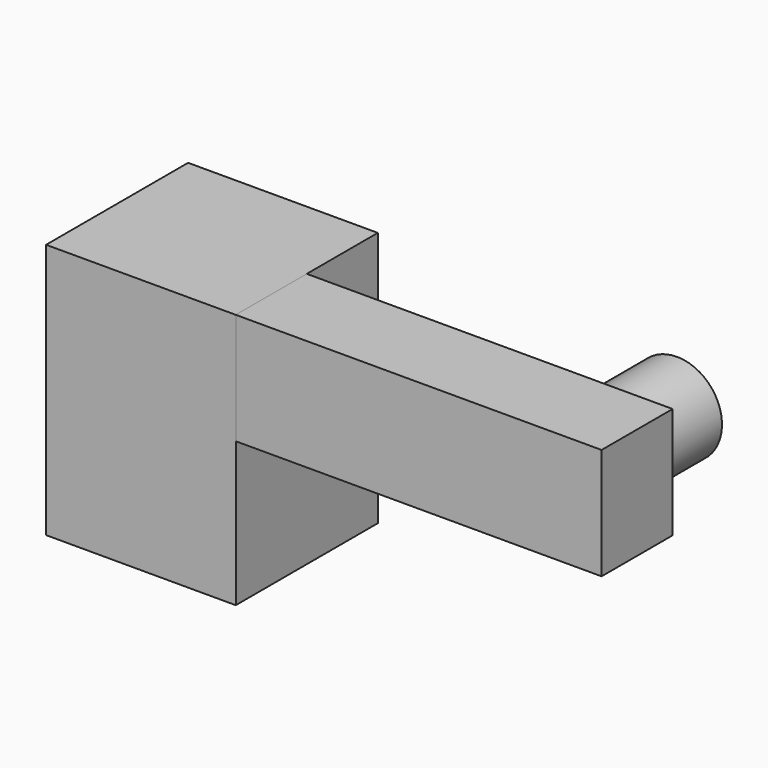
from build123d import *

# Parameters (mm, degrees)
F0_W     = 57.309732
F0_H     = 53.635195
F1_DEPTH = 77.237658
F2_W     = 26.817598
F2_H     = 33.619173
F3_DEPTH = 110.525155
F4_R     = 13.614552
F5_DEPTH = 25


with BuildPart() as f1:
    # F0 (on Top) → F1 (new body)
    with BuildSketch(Plane.XY):
        with Locations((28.654866, -26.817597)):
            Rectangle(F0_W, F0_H)
    extrude(amount=F1_DEPTH)

    # F2 (on face) → F3 (join)
    with BuildSketch(Plane.YZ.offset(57.309732)):
        with Locations((-40.226396, 60.428072)):
            Rectangle(F2_W, F2_H)
    extrude(amount=F3_DEPTH)

    # F4 (on face) → F5 (join)
    with BuildSketch(Plane(origin=(0, -26.817597, 0), x_dir=(-1, 0, 0), z_dir=(0, 1, 0))):
        with Locations((-149.149746, 61.273407)):
            Circle(F4_R)
    extrude(amount=F5_DEPTH)


solid = f1.part
